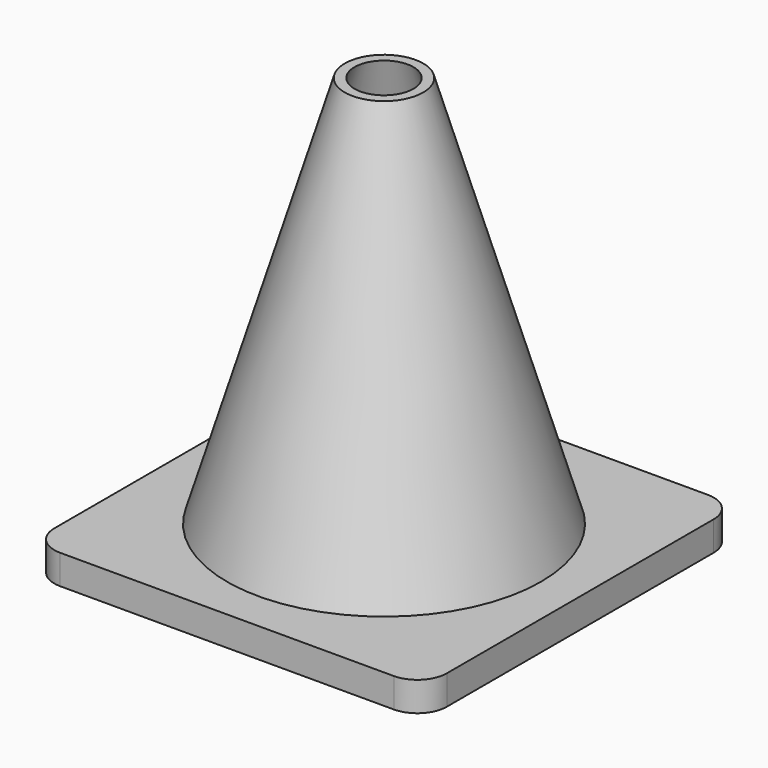
from build123d import *

# Parameters (mm, degrees)
CYLINDER_R     = 15
CYLINDER_DEPTH = 6
BOX_W          = 40
BOX_H          = 40
BOX_DEPTH      = 3
FILLET_R       = 3
FILLET001_R    = 3
FILLET002_R    = 3
FILLET003_R    = 3


with BuildPart() as con_interior:
    # Cone001 → Cone001 (revolve)
    with BuildSketch(Plane(origin=(20, 20, 3), x_dir=(1, 0, 0), z_dir=(0, -1, 0))):
        Polygon((0, 0), (15, 0), (3, 40), (0, 40), align=None)
    revolve(axis=Axis((20, 20, 3), (0, 0, 1)))


with BuildPart() as cut:
    # Cone → Cone (revolve)
    with BuildSketch(Plane(origin=(20, 20, 3), x_dir=(1, 0, 0), z_dir=(0, -1, 0))):
        Polygon((0, 0), (16, 0), (4, 40), (0, 40), align=None)
    revolve(axis=Axis((20, 20, 3), (0, 0, 1)))

    # Cut: cut Con-interior
    add(con_interior.part, mode=Mode.SUBTRACT)


with BuildPart() as cilindre:
    # Cylinder → Cylinder (new body)
    with BuildSketch(Plane(origin=(20, 19.5, -2), x_dir=(1, 0, 0), z_dir=(0, 0, 1))):
        Circle(CYLINDER_R)
    extrude(amount=CYLINDER_DEPTH)


with BuildPart() as cut001:
    # Box → Box (new body)
    with BuildSketch(Plane.XY):
        with Locations((20, 20)):
            Rectangle(BOX_W, BOX_H)
    extrude(amount=BOX_DEPTH)

    # Fillet
    fillet_edges = [cut001.edges().sort_by_distance(p)[0] for p in [
        (40, 0, 1.5),
    ]]
    fillet(fillet_edges, radius=FILLET_R)

    # Fillet001
    fillet001_edges = [cut001.edges().sort_by_distance(p)[0] for p in [
        (40, 40, 1.5),
    ]]
    fillet(fillet001_edges, radius=FILLET001_R)

    # Fillet002
    fillet002_edges = [cut001.edges().sort_by_distance(p)[0] for p in [
        (0, 0, 1.5),
    ]]
    fillet(fillet002_edges, radius=FILLET002_R)

    # Fillet003
    fillet003_edges = [cut001.edges().sort_by_distance(p)[0] for p in [
        (0, 40, 1.5),
    ]]
    fillet(fillet003_edges, radius=FILLET003_R)

    # Cut001: cut Cilindre
    add(cilindre.part, mode=Mode.SUBTRACT)


solid = Compound([cut.part, cut001.part])
